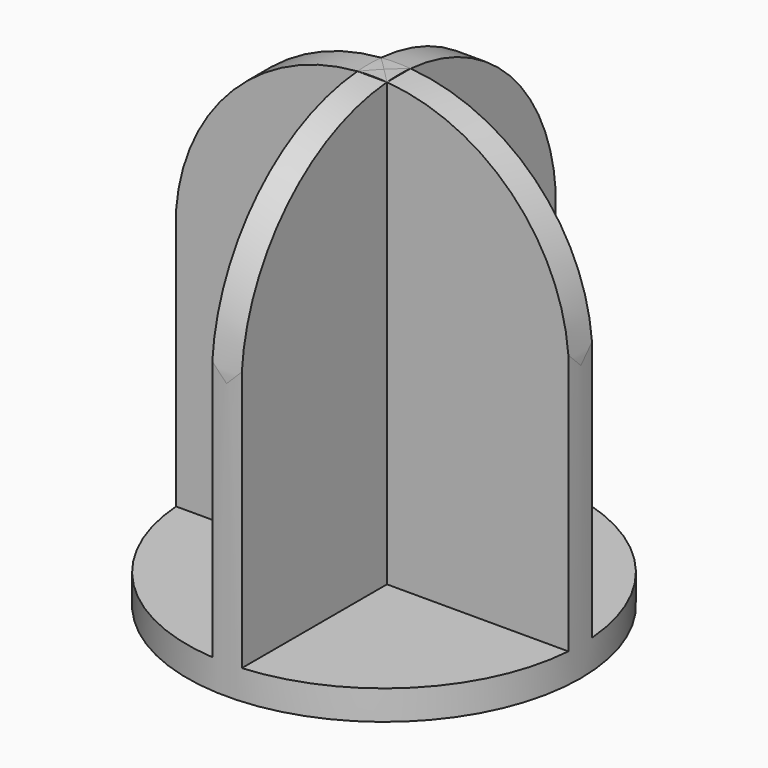
from build123d import *

# Parameters (mm, degrees)
F0_R          = 50.8
F1_DEPTH      = 7.62
F3_DEPTH      = 3.81
F3_DEPTH_BACK = 3.81
F5_DEPTH      = 3.81
F5_DEPTH_BACK = 3.81
F6_R          = 73.848942
F6_R_2        = 50.8
F7_DEPTH      = 127


with BuildPart() as f1:
    # F0 (on Top) → F1 (new body)
    with BuildSketch(Plane.XY):
        Circle(F0_R)
    extrude(amount=F1_DEPTH)

    # F2 (on Front) → F3 (join, two sides)
    with BuildSketch(Plane.XZ) as f3_sk:
        with BuildLine():
            Line((50.8, 7.62), (50.8, 71.12))
            ThreePointArc((50.8, 71.12), (0, 121.92), (-50.8, 71.12))
            Line((-50.8, 71.12), (-50.8, 7.62))
            Line((-50.8, 7.62), (50.8, 7.62))
        make_face()
    extrude(amount=F3_DEPTH)
    extrude(f3_sk.sketch, amount=-F3_DEPTH_BACK)

    # F4 (on Right) → F5 (join, two sides)
    with BuildSketch(Plane.YZ) as f5_sk:
        with BuildLine():
            Line((50.8, 7.62), (50.8, 71.12))
            ThreePointArc((50.8, 71.12), (0, 121.92), (-50.8, 71.12))
            Line((-50.8, 71.12), (-50.8, 7.62))
            Line((-50.8, 7.62), (50.8, 7.62))
        make_face()
    extrude(amount=F5_DEPTH)
    extrude(f5_sk.sketch, amount=-F5_DEPTH_BACK)

    # F6 (on face) → F7 (cut)
    with BuildSketch(Plane(origin=(0, 0, 0), x_dir=(1, 0, 0), z_dir=(0, 0, -1))):
        Circle(F6_R)
        Circle(F6_R_2, mode=Mode.SUBTRACT)
    extrude(amount=-F7_DEPTH, mode=Mode.SUBTRACT)


solid = f1.part
